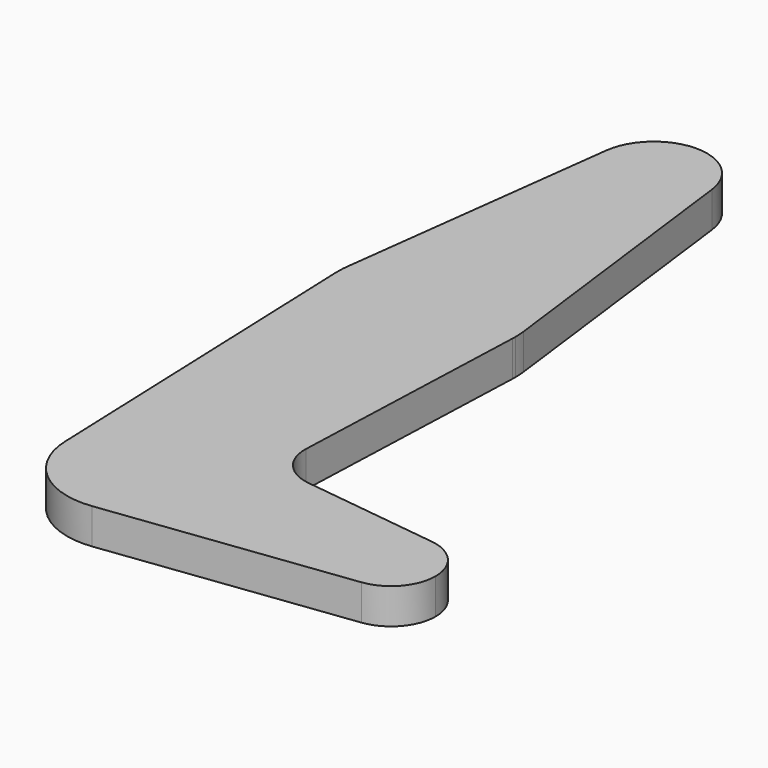
from build123d import *

# Parameters (mm, degrees)
F1_DEPTH = 0.25


with BuildPart() as f1:
    # F0 (on Top) → F1 (new body)
    with BuildSketch(Plane.XY):
        with BuildLine():
            ThreePointArc((0.372059, 4.546875), (0, 4.875), (-0.372059, 4.546875))
            ThreePointArc((-0.372059, 4.546875), (-0.023484, 4.125736), (0.375, 4.5))
            ThreePointArc((0.375, 4.5), (0.374264, 4.523484), (0.372059, 4.546875))
        make_face()
        with BuildLine():
            Line((-0.372059, 4.546875), (-0.620098, 2.578125))
            ThreePointArc((-0.620098, 2.578125), (0, 3.125), (0.620098, 2.578125))
            Line((0.620098, 2.578125), (0.372059, 4.546875))
            ThreePointArc((0.372059, 4.546875), (0.374264, 4.523484), (0.375, 4.5))
            ThreePointArc((0.375, 4.5), (-0.023484, 4.125736), (-0.372059, 4.546875))
        make_face()
        with BuildLine():
            ThreePointArc((-0.620098, 2.578125), (-0.624398, 2.527417), (-0.624559, 2.476526))
            ThreePointArc((-0.624559, 2.476526), (0, 1.875), (0.624559, 2.476526))
            ThreePointArc((0.624559, 2.476526), (0.62489, 2.488261), (0.625, 2.5))
            ThreePointArc((0.625, 2.5), (0.623773, 2.539139), (0.620098, 2.578125))
            ThreePointArc((0.620098, 2.578125), (0, 3.125), (-0.620098, 2.578125))
        make_face()
        with BuildLine():
            ThreePointArc((-0.530731, -0.019947), (-0.009975, 0.531012), (0.531106, 0))
            ThreePointArc((0.531106, 0), (0.398315, -0.35131), (0.066345, -0.526946))
            Line((0.066345, -0.526946), (1.789037, -0.310052))
            ThreePointArc((1.789037, -0.310052), (1.4375, 0), (1.789037, 0.310052))
            Line((1.789037, 0.310052), (0.821635, 0.431852))
            ThreePointArc((0.821635, 0.431852), (0.630431, 0.535322), (0.559322, 0.740769))
            Line((0.559322, 0.740769), (0.624559, 2.476526))
            ThreePointArc((0.624559, 2.476526), (0, 1.875), (-0.624559, 2.476526))
            Line((-0.624559, 2.476526), (-0.530731, -0.019947))
        make_face()
        with BuildLine():
            ThreePointArc((0.066345, -0.526946), (0.398315, -0.35131), (0.531106, 0))
            ThreePointArc((0.531106, 0), (-0.009975, 0.531012), (-0.530731, -0.019947))
            ThreePointArc((-0.530731, -0.019947), (-0.343767, -0.404843), (0.066345, -0.526946))
        make_face()
        with BuildLine():
            ThreePointArc((1.789037, 0.310052), (1.4375, 0), (1.789037, -0.310052))
            ThreePointArc((1.789037, -0.310052), (1.984366, -0.206709), (2.0625, 0))
            ThreePointArc((2.0625, 0), (1.984366, 0.206709), (1.789037, 0.310052))
        make_face()
    extrude(amount=F1_DEPTH)


solid = f1.part
